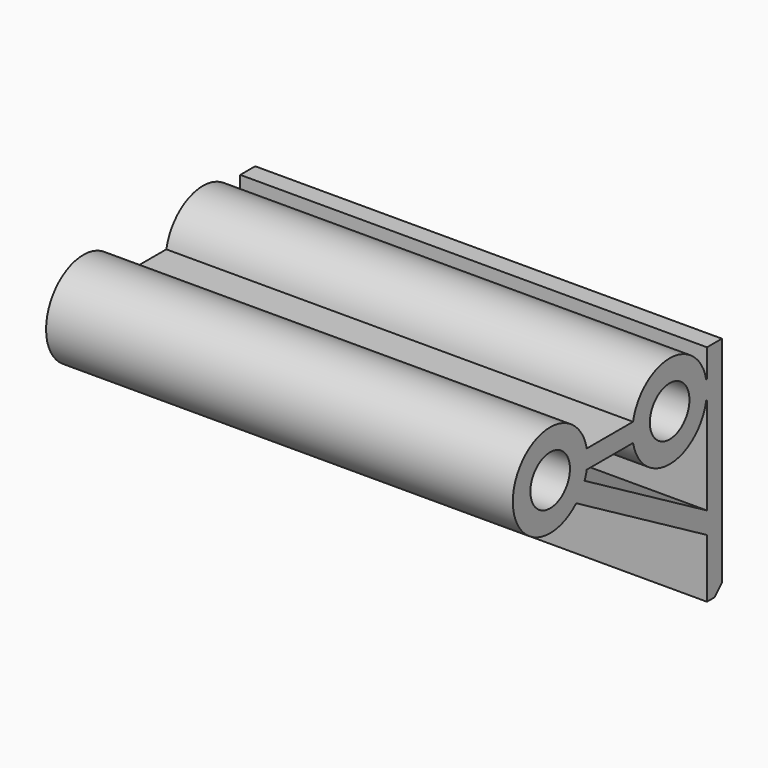
from build123d import *

# Parameters (mm, degrees)
CYLINDER039_R          = 2.65
CYLINDER039_DEPTH      = 149.5
CYLINDER040_R          = 2.65
CYLINDER040_DEPTH      = 149.5
CYLINDER041_R          = 5
CYLINDER041_DEPTH      = 149.5
BOX038_W               = 149.5
BOX038_H               = 23
BOX038_DEPTH           = 2
BOX038_PLACEMENT_ANGLE = 30
BOX037_W               = 149.5
BOX037_H               = 19
BOX037_DEPTH           = 2
BOX036_W               = 149.5
BOX036_H               = 2
BOX036_DEPTH           = 24
CYLINDER042_R          = 5
CYLINDER042_DEPTH      = 149.5
CHAMFER006036_SIZE     = 1
BOX079_W               = 50
BOX079_H               = 28
BOX079_DEPTH           = 25


with BuildPart() as cylinder039:
    # Cylinder039 → Cylinder039 (new body)
    with BuildSketch(Plane(origin=(15, 8, 15), x_dir=(0, 0, -1), z_dir=(1, 0, 0))):
        Circle(CYLINDER039_R)
    extrude(amount=CYLINDER039_DEPTH)


with BuildPart() as fusion020006007003002009018004004015:
    # Cylinder040 → Cylinder040 (new body)
    with BuildSketch(Plane(origin=(15, -8, 15), x_dir=(0, 0, -1), z_dir=(1, 0, 0))):
        Circle(CYLINDER040_R)
    extrude(amount=CYLINDER040_DEPTH)

    # Fusion020006007003002009018004004015: union Cylinder039
    add(cylinder039.part)


with BuildPart() as cylinder041:
    # Cylinder041 → Cylinder041 (new body)
    with BuildSketch(Plane(origin=(15, -8, 15), x_dir=(0, 0, -1), z_dir=(1, 0, 0))):
        Circle(CYLINDER041_R)
    extrude(amount=CYLINDER041_DEPTH)


with BuildPart() as cube038:
    # Box038 → Box038 (new body)
    with BuildSketch(Plane.XY):
        with Locations((74.75, 11.5)):
            Rectangle(BOX038_W, BOX038_H)
    extrude(amount=BOX038_DEPTH)


with BuildPart() as cube038_1:
    # Box038 placement: moved
    add(cube038.part.moved(Location((15, -6, 12.267949))).rotate(Axis((15, -6, 12.267949), (-1, 0, 0)), BOX038_PLACEMENT_ANGLE))


with BuildPart() as cube037:
    # Box037 → Box037 (new body)
    with BuildSketch(Plane(origin=(15, -5, 14), x_dir=(1, 0, 0), z_dir=(0, 0, 1))):
        with Locations((74.75, 9.5)):
            Rectangle(BOX037_W, BOX037_H)
    extrude(amount=BOX037_DEPTH)


with BuildPart() as cube036:
    # Box036 → Box036 (new body)
    with BuildSketch(Plane(origin=(15, 13, -5), x_dir=(1, 0, 0), z_dir=(0, 0, 1))):
        with Locations((74.75, 1)):
            Rectangle(BOX036_W, BOX036_H)
    extrude(amount=BOX036_DEPTH)


with BuildPart() as bottom_back_150mm_wall:
    # Cylinder042 → Cylinder042 (new body)
    with BuildSketch(Plane(origin=(15, 8, 15), x_dir=(0, 0, -1), z_dir=(1, 0, 0))):
        Circle(CYLINDER042_R)
    extrude(amount=CYLINDER042_DEPTH)

    # Fusion020006007003002009018004004014: union Cylinder041, Cube038, Cube037, Cube036
    add(cylinder041.part)
    add(cube038_1.part)
    add(cube037.part)
    add(cube036.part)

    # Chamfer006036
    chamfer006036_edges = [bottom_back_150mm_wall.edges().sort_by_distance(p)[0] for p in [
        (89.75, 15, -5),
    ]]
    chamfer(chamfer006036_edges, length=CHAMFER006036_SIZE)

    # Cut019003006: cut Fusion020006007003002009018004004015
    add(fusion020006007003002009018004004015.part, mode=Mode.SUBTRACT)


with BuildPart() as bottom_back_50mm_wall:
    # Box079 → Box079 (new body)
    with BuildSketch(Plane(origin=(15, -13, -5), x_dir=(1, 0, 0), z_dir=(0, 0, 1))):
        with Locations((25, 14)):
            Rectangle(BOX079_W, BOX079_H)
    extrude(amount=BOX079_DEPTH)

    # Common002: intersect bottom-back-150mm-wall
    add(bottom_back_150mm_wall.part, mode=Mode.INTERSECT)


solid = bottom_back_50mm_wall.part
